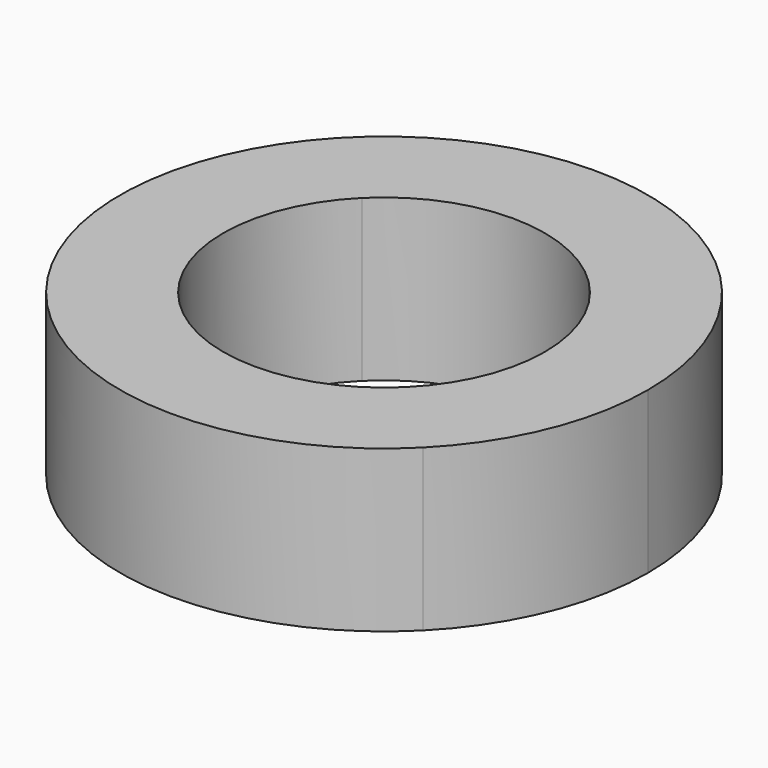
from build123d import *

# Parameters (mm, degrees)
F0_W     = 59.1505952179
F0_H     = 58.5630126297
F1_DEPTH = 25.4


with BuildPart() as f1:
    # F0 (on Top) → F1 (new body)
    with BuildSketch(Plane.XY):
        Rectangle(F0_W, F0_H)
        with BuildLine():
            ThreePointArc((17.8840578214, 17.9873266268), (23.420211858, 9.7404886871), (25.3650043039, 0))
            ThreePointArc((25.3650043039, 0), (23.420211858, -9.7404886871), (17.8840578214, -17.9873266268))
            ThreePointArc((17.8840578214, -17.9873266268), (17.8293247145, -18.0415804065), (17.774427022, -18.0956676411))
            ThreePointArc((17.774427022, -18.0956676411), (-0.0770660229, -25.3648872295), (-17.8840578214, -17.9873266268))
            ThreePointArc((-17.8840578214, -17.9873266268), (-25.3650043039, 0), (-17.8840578214, 17.9873266268))
            ThreePointArc((-17.8840578214, 17.9873266268), (0, 25.3650043039), (17.8840578214, 17.9873266268))
        make_face(mode=Mode.SUBTRACT)
        with BuildLine():
            ThreePointArc((41.6185636553, 0), (38.4901691792, 15.8307206811), (29.575297609, 29.2815063149))
            Line((29.575297609, 29.2815063149), (29.575297609, -29.2815063149))
            ThreePointArc((29.575297609, -29.2815063149), (38.4901691792, -15.8307206811), (41.6185636553, 0))
        make_face()
        with BuildLine():
            Line((-29.575297609, 29.2815063149), (29.575297609, 29.2815063149))
            ThreePointArc((29.575297609, 29.2815063149), (0, 41.6185636553), (-29.575297609, 29.2815063149))
        make_face()
        with BuildLine():
            Line((-29.575297609, -29.2815063149), (-29.575297609, 29.2815063149))
            ThreePointArc((-29.575297609, 29.2815063149), (-41.6185636553, 0), (-29.575297609, -29.2815063149))
        make_face()
        with BuildLine():
            ThreePointArc((-29.575297609, -29.2815063149), (0, -41.6185636553), (29.575297609, -29.2815063149))
            Line((29.575297609, -29.2815063149), (-29.575297609, -29.2815063149))
        make_face()
    extrude(amount=F1_DEPTH)


solid = f1.part
